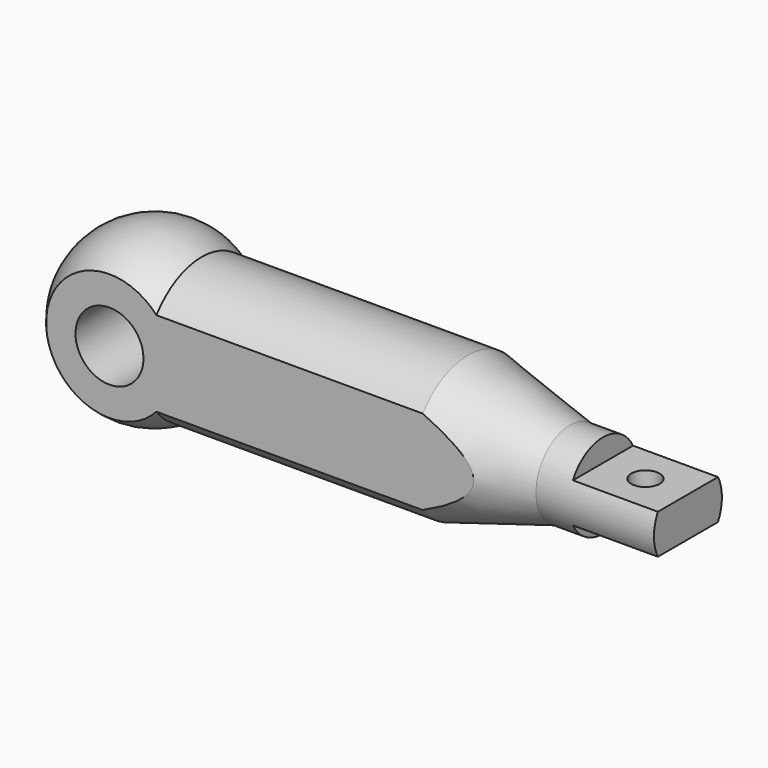
from build123d import *

# Parameters (mm, degrees)
F2_W          = 381
F2_H          = 102.1967058976
F3_DEPTH      = 381.001
F3_DEPTH_BACK = 381.001
F5_DEPTH      = 2771.6493650208
F6_R          = 152.4
F7_DEPTH      = 508.001
F8_R          = 63.5
F9_DEPTH      = 469.901


with BuildPart() as f1:
    # F0 (on Front) → F1 (revolve)
    with BuildSketch(Plane.XZ):
        with BuildLine():
            ThreePointArc((210.6056741876, 317.5), (-180.1669200138, 335.7095186806), (-381, 0))
            Line((-381, 0), (1644.6669101715, 0))
            Line((1644.6669101715, 0), (1709.2056741876, 0))
            Line((1709.2056741876, 0), (2390.6483650208, 0))
            Line((2390.6483650208, 0), (2390.6483650208, 190.5))
            Line((2390.6483650208, 190.5), (1861.6056741876, 190.5))
            Line((1861.6056741876, 190.5), (1404.4056741876, 317.5))
            Line((1404.4056741876, 317.5), (210.6056741876, 317.5))
        make_face()
    revolve(axis=Axis((1529.9751758575, 0, 0), (1, 0, 0)))

    # F2 (on Front) → F3 (cut, two sides)
    with BuildSketch(Plane.XZ) as f3_sk:
        with Locations((2200.1483650208, 139.9983529488)):
            Rectangle(F2_W, F2_H)
        with Locations((2200.1483650208, -139.9983529488)):
            Rectangle(F2_W, F2_H)
    extrude(amount=-F3_DEPTH, mode=Mode.SUBTRACT)
    extrude(f3_sk.sketch, amount=F3_DEPTH_BACK, mode=Mode.SUBTRACT)

    # F4 (on face) → F5 (cut, through all)
    with BuildSketch(Plane.YZ.offset(2390.6483650208)):
        with BuildLine():
            Line((-254, -283.9806331425), (-254, 283.9806331425))
            ThreePointArc((-254, 283.9806331425), (-381, 0), (-254, -283.9806331425))
        make_face()
        with BuildLine():
            ThreePointArc((381, 0), (347.8038240158, 155.5425986667), (254, 283.9806331425))
            Line((254, 283.9806331425), (254, -283.9806331425))
            ThreePointArc((254, -283.9806331425), (347.8038240158, -155.5425986667), (381, 0))
        make_face()
    extrude(amount=-F5_DEPTH, mode=Mode.SUBTRACT)

    # F6 (on face) → F7 (cut, through all)
    with BuildSketch(Plane.XZ.offset(254)):
        Circle(F6_R)
    extrude(amount=-F7_DEPTH, mode=Mode.SUBTRACT)

    # F8 (on face) → F9 (cut, through all)
    with BuildSketch(Plane.XY.offset(88.9)):
        with Locations((2200.1483650208, 0)):
            Circle(F8_R)
    extrude(amount=-F9_DEPTH, mode=Mode.SUBTRACT)


solid = f1.part
